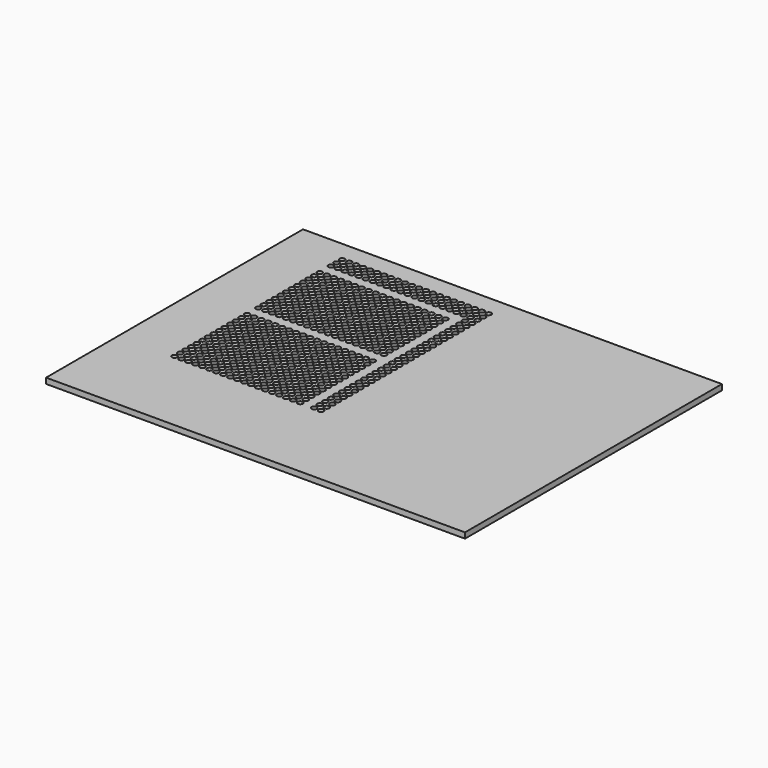
from build123d import *

# Parameters (mm, degrees)
F0_W     = 381
F0_H     = 292.1
F1_DEPTH = 5.08
F2_R     = 2.3876
F3_DEPTH = 3.81
F4_R     = 0.254
F5_DEPTH = 1.271


with BuildPart() as f1:
    # F0 (on Top) → F1 (new body)
    with BuildSketch(Plane.XY):
        with Locations((41.971452, 42.854718)):
            Rectangle(F0_W, F0_H)
    extrude(amount=F1_DEPTH)

    # F2 (on face) → F3 (cut)
    with BuildSketch(Plane.XY.offset(5.08)):
        with Locations((-97.728548, -20.645282)):
            Circle(F2_R)
        with Locations((-97.728548, -14.295282)):
            Circle(F2_R)
        with Locations((-97.728548, -7.945282)):
            Circle(F2_R)
        with Locations((-97.728548, -1.595282)):
            Circle(F2_R)
        with Locations((-97.728548, 4.754718)):
            Circle(F2_R)
        with Locations((-97.728548, 11.104718)):
            Circle(F2_R)
        with Locations((-97.728548, 17.454718)):
            Circle(F2_R)
        with Locations((-97.728548, 23.804718)):
            Circle(F2_R)
        with Locations((-97.728548, 30.154718)):
            Circle(F2_R)
        with Locations((-97.728548, 36.504718)):
            Circle(F2_R)
        with Locations((-97.728548, 42.854718)):
            Circle(F2_R)
        with Locations((-97.728548, 49.204718)):
            Circle(F2_R)
        with Locations((-97.728548, 55.554718)):
            Circle(F2_R)
        with Locations((-97.728548, 61.904718)):
            Circle(F2_R)
        with Locations((-91.378548, -20.645282)):
            Circle(F2_R)
        with Locations((-91.378548, -14.295282)):
            Circle(F2_R)
        with Locations((-91.378548, -7.945282)):
            Circle(F2_R)
        with Locations((-91.378548, -1.595282)):
            Circle(F2_R)
        with Locations((-91.378548, 4.754718)):
            Circle(F2_R)
        with Locations((-91.378548, 11.104718)):
            Circle(F2_R)
        with Locations((-91.378548, 17.454718)):
            Circle(F2_R)
        with Locations((-91.378548, 23.804718)):
            Circle(F2_R)
        with Locations((-91.378548, 30.154718)):
            Circle(F2_R)
        with Locations((-91.378548, 36.504718)):
            Circle(F2_R)
        with Locations((-91.378548, 42.854718)):
            Circle(F2_R)
        with Locations((-91.378548, 49.204718)):
            Circle(F2_R)
        with Locations((-91.378548, 55.554718)):
            Circle(F2_R)
        with Locations((-91.378548, 61.904718)):
            Circle(F2_R)
        with Locations((-85.028548, -20.645282)):
            Circle(F2_R)
        with Locations((-85.028548, -14.295282)):
            Circle(F2_R)
        with Locations((-85.028548, -7.945282)):
            Circle(F2_R)
        with Locations((-85.028548, -1.595282)):
            Circle(F2_R)
        with Locations((-85.028548, 4.754718)):
            Circle(F2_R)
        with Locations((-85.028548, 11.104718)):
            Circle(F2_R)
        with Locations((-85.028548, 17.454718)):
            Circle(F2_R)
        with Locations((-85.028548, 23.804718)):
            Circle(F2_R)
        with Locations((-85.028548, 30.154718)):
            Circle(F2_R)
        with Locations((-85.028548, 36.504718)):
            Circle(F2_R)
        with Locations((-85.028548, 42.854718)):
            Circle(F2_R)
        with Locations((-85.028548, 49.204718)):
            Circle(F2_R)
        with Locations((-85.028548, 55.554718)):
            Circle(F2_R)
        with Locations((-85.028548, 61.904718)):
            Circle(F2_R)
        with Locations((-78.678548, -20.645282)):
            Circle(F2_R)
        with Locations((-78.678548, -14.295282)):
            Circle(F2_R)
        with Locations((-78.678548, -7.945282)):
            Circle(F2_R)
        with Locations((-78.678548, -1.595282)):
            Circle(F2_R)
        with Locations((-78.678548, 4.754718)):
            Circle(F2_R)
        with Locations((-78.678548, 11.104718)):
            Circle(F2_R)
        with Locations((-78.678548, 17.454718)):
            Circle(F2_R)
        with Locations((-78.678548, 23.804718)):
            Circle(F2_R)
        with Locations((-78.678548, 30.154718)):
            Circle(F2_R)
        with Locations((-78.678548, 36.504718)):
            Circle(F2_R)
        with Locations((-78.678548, 42.854718)):
            Circle(F2_R)
        with Locations((-78.678548, 49.204718)):
            Circle(F2_R)
        with Locations((-78.678548, 55.554718)):
            Circle(F2_R)
        with Locations((-78.678548, 61.904718)):
            Circle(F2_R)
        with Locations((-72.328548, -20.645282)):
            Circle(F2_R)
        with Locations((-72.328548, -14.295282)):
            Circle(F2_R)
        with Locations((-72.328548, -7.945282)):
            Circle(F2_R)
        with Locations((-72.328548, -1.595282)):
            Circle(F2_R)
        with Locations((-72.328548, 4.754718)):
            Circle(F2_R)
        with Locations((-72.328548, 11.104718)):
            Circle(F2_R)
        with Locations((-72.328548, 17.454718)):
            Circle(F2_R)
        with Locations((-72.328548, 23.804718)):
            Circle(F2_R)
        with Locations((-72.328548, 30.154718)):
            Circle(F2_R)
        with Locations((-72.328548, 36.504718)):
            Circle(F2_R)
        with Locations((-72.328548, 42.854718)):
            Circle(F2_R)
        with Locations((-72.328548, 49.204718)):
            Circle(F2_R)
        with Locations((-72.328548, 55.554718)):
            Circle(F2_R)
        with Locations((-72.328548, 61.904718)):
            Circle(F2_R)
        with Locations((-65.978548, -20.645282)):
            Circle(F2_R)
        with Locations((-65.978548, -14.295282)):
            Circle(F2_R)
        with Locations((-65.978548, -7.945282)):
            Circle(F2_R)
        with Locations((-65.978548, -1.595282)):
            Circle(F2_R)
        with Locations((-65.978548, 4.754718)):
            Circle(F2_R)
        with Locations((-65.978548, 11.104718)):
            Circle(F2_R)
        with Locations((-65.978548, 17.454718)):
            Circle(F2_R)
        with Locations((-65.978548, 23.804718)):
            Circle(F2_R)
        with Locations((-65.978548, 30.154718)):
            Circle(F2_R)
        with Locations((-65.978548, 36.504718)):
            Circle(F2_R)
        with Locations((-65.978548, 42.854718)):
            Circle(F2_R)
        with Locations((-65.978548, 49.204718)):
            Circle(F2_R)
        with Locations((-65.978548, 55.554718)):
            Circle(F2_R)
        with Locations((-65.978548, 61.904718)):
            Circle(F2_R)
        with Locations((-59.628548, -20.645282)):
            Circle(F2_R)
        with Locations((-59.628548, -14.295282)):
            Circle(F2_R)
        with Locations((-59.628548, -7.945282)):
            Circle(F2_R)
        with Locations((-59.628548, -1.595282)):
            Circle(F2_R)
        with Locations((-59.628548, 4.754718)):
            Circle(F2_R)
        with Locations((-59.628548, 11.104718)):
            Circle(F2_R)
        with Locations((-59.628548, 17.454718)):
            Circle(F2_R)
        with Locations((-59.628548, 23.804718)):
            Circle(F2_R)
        with Locations((-59.628548, 30.154718)):
            Circle(F2_R)
        with Locations((-59.628548, 36.504718)):
            Circle(F2_R)
        with Locations((-59.628548, 42.854718)):
            Circle(F2_R)
        with Locations((-59.628548, 49.204718)):
            Circle(F2_R)
        with Locations((-59.628548, 55.554718)):
            Circle(F2_R)
        with Locations((-59.628548, 61.904718)):
            Circle(F2_R)
        with Locations((-53.278548, -20.645282)):
            Circle(F2_R)
        with Locations((-53.278548, -14.295282)):
            Circle(F2_R)
        with Locations((-53.278548, -7.945282)):
            Circle(F2_R)
        with Locations((-53.278548, -1.595282)):
            Circle(F2_R)
        with Locations((-53.278548, 4.754718)):
            Circle(F2_R)
        with Locations((-53.278548, 11.104718)):
            Circle(F2_R)
        with Locations((-53.278548, 17.454718)):
            Circle(F2_R)
        with Locations((-53.278548, 23.804718)):
            Circle(F2_R)
        with Locations((-53.278548, 30.154718)):
            Circle(F2_R)
        with Locations((-53.278548, 36.504718)):
            Circle(F2_R)
        with Locations((-53.278548, 42.854718)):
            Circle(F2_R)
        with Locations((-53.278548, 49.204718)):
            Circle(F2_R)
        with Locations((-53.278548, 55.554718)):
            Circle(F2_R)
        with Locations((-53.278548, 61.904718)):
            Circle(F2_R)
        with Locations((-46.928548, -20.645282)):
            Circle(F2_R)
        with Locations((-46.928548, -14.295282)):
            Circle(F2_R)
        with Locations((-46.928548, -7.945282)):
            Circle(F2_R)
        with Locations((-46.928548, -1.595282)):
            Circle(F2_R)
        with Locations((-46.928548, 4.754718)):
            Circle(F2_R)
        with Locations((-46.928548, 11.104718)):
            Circle(F2_R)
        with Locations((-46.928548, 17.454718)):
            Circle(F2_R)
        with Locations((-46.928548, 23.804718)):
            Circle(F2_R)
        with Locations((-46.928548, 30.154718)):
            Circle(F2_R)
        with Locations((-46.928548, 36.504718)):
            Circle(F2_R)
        with Locations((-46.928548, 42.854718)):
            Circle(F2_R)
        with Locations((-46.928548, 49.204718)):
            Circle(F2_R)
        with Locations((-46.928548, 55.554718)):
            Circle(F2_R)
        with Locations((-46.928548, 61.904718)):
            Circle(F2_R)
        with Locations((-40.578548, -20.645282)):
            Circle(F2_R)
        with Locations((-40.578548, -14.295282)):
            Circle(F2_R)
        with Locations((-40.578548, -7.945282)):
            Circle(F2_R)
        with Locations((-40.578548, -1.595282)):
            Circle(F2_R)
        with Locations((-40.578548, 4.754718)):
            Circle(F2_R)
        with Locations((-40.578548, 11.104718)):
            Circle(F2_R)
        with Locations((-40.578548, 17.454718)):
            Circle(F2_R)
        with Locations((-40.578548, 23.804718)):
            Circle(F2_R)
        with Locations((-40.578548, 30.154718)):
            Circle(F2_R)
        with Locations((-40.578548, 36.504718)):
            Circle(F2_R)
        with Locations((-40.578548, 42.854718)):
            Circle(F2_R)
        with Locations((-40.578548, 49.204718)):
            Circle(F2_R)
        with Locations((-40.578548, 55.554718)):
            Circle(F2_R)
        with Locations((-40.578548, 61.904718)):
            Circle(F2_R)
        with Locations((-34.228548, -20.645282)):
            Circle(F2_R)
        with Locations((-34.228548, -14.295282)):
            Circle(F2_R)
        with Locations((-34.228548, -7.945282)):
            Circle(F2_R)
        with Locations((-34.228548, -1.595282)):
            Circle(F2_R)
        with Locations((-34.228548, 4.754718)):
            Circle(F2_R)
        with Locations((-34.228548, 11.104718)):
            Circle(F2_R)
        with Locations((-34.228548, 17.454718)):
            Circle(F2_R)
        with Locations((-34.228548, 23.804718)):
            Circle(F2_R)
        with Locations((-34.228548, 30.154718)):
            Circle(F2_R)
        with Locations((-34.228548, 36.504718)):
            Circle(F2_R)
        with Locations((-34.228548, 42.854718)):
            Circle(F2_R)
        with Locations((-34.228548, 49.204718)):
            Circle(F2_R)
        with Locations((-34.228548, 55.554718)):
            Circle(F2_R)
        with Locations((-34.228548, 61.904718)):
            Circle(F2_R)
        with Locations((-27.878548, -20.645282)):
            Circle(F2_R)
        with Locations((-27.878548, -14.295282)):
            Circle(F2_R)
        with Locations((-27.878548, -7.945282)):
            Circle(F2_R)
        with Locations((-27.878548, -1.595282)):
            Circle(F2_R)
        with Locations((-27.878548, 4.754718)):
            Circle(F2_R)
        with Locations((-27.878548, 11.104718)):
            Circle(F2_R)
        with Locations((-27.878548, 17.454718)):
            Circle(F2_R)
        with Locations((-27.878548, 23.804718)):
            Circle(F2_R)
        with Locations((-27.878548, 30.154718)):
            Circle(F2_R)
        with Locations((-27.878548, 36.504718)):
            Circle(F2_R)
        with Locations((-27.878548, 42.854718)):
            Circle(F2_R)
        with Locations((-27.878548, 49.204718)):
            Circle(F2_R)
        with Locations((-27.878548, 55.554718)):
            Circle(F2_R)
        with Locations((-27.878548, 61.904718)):
            Circle(F2_R)
        with Locations((-21.528548, -20.645282)):
            Circle(F2_R)
        with Locations((-21.528548, -14.295282)):
            Circle(F2_R)
        with Locations((-21.528548, -7.945282)):
            Circle(F2_R)
        with Locations((-21.528548, -1.595282)):
            Circle(F2_R)
        with Locations((-21.528548, 4.754718)):
            Circle(F2_R)
        with Locations((-21.528548, 11.104718)):
            Circle(F2_R)
        with Locations((-21.528548, 17.454718)):
            Circle(F2_R)
        with Locations((-21.528548, 23.804718)):
            Circle(F2_R)
        with Locations((-21.528548, 30.154718)):
            Circle(F2_R)
        with Locations((-21.528548, 36.504718)):
            Circle(F2_R)
        with Locations((-21.528548, 42.854718)):
            Circle(F2_R)
        with Locations((-21.528548, 49.204718)):
            Circle(F2_R)
        with Locations((-21.528548, 55.554718)):
            Circle(F2_R)
        with Locations((-21.528548, 61.904718)):
            Circle(F2_R)
        with Locations((-15.178548, -20.645282)):
            Circle(F2_R)
        with Locations((-15.178548, -14.295282)):
            Circle(F2_R)
        with Locations((-15.178548, -7.945282)):
            Circle(F2_R)
        with Locations((-15.178548, -1.595282)):
            Circle(F2_R)
        with Locations((-15.178548, 4.754718)):
            Circle(F2_R)
        with Locations((-15.178548, 11.104718)):
            Circle(F2_R)
        with Locations((-15.178548, 17.454718)):
            Circle(F2_R)
        with Locations((-15.178548, 23.804718)):
            Circle(F2_R)
        with Locations((-15.178548, 30.154718)):
            Circle(F2_R)
        with Locations((-15.178548, 36.504718)):
            Circle(F2_R)
        with Locations((-15.178548, 42.854718)):
            Circle(F2_R)
        with Locations((-15.178548, 49.204718)):
            Circle(F2_R)
        with Locations((-15.178548, 55.554718)):
            Circle(F2_R)
        with Locations((-15.178548, 61.904718)):
            Circle(F2_R)
        with Locations((-8.828548, -20.645282)):
            Circle(F2_R)
        with Locations((-8.828548, -14.295282)):
            Circle(F2_R)
        with Locations((-8.828548, -7.945282)):
            Circle(F2_R)
        with Locations((-8.828548, -1.595282)):
            Circle(F2_R)
        with Locations((-8.828548, 4.754718)):
            Circle(F2_R)
        with Locations((-8.828548, 11.104718)):
            Circle(F2_R)
        with Locations((-8.828548, 17.454718)):
            Circle(F2_R)
        with Locations((-8.828548, 23.804718)):
            Circle(F2_R)
        with Locations((-8.828548, 30.154718)):
            Circle(F2_R)
        with Locations((-8.828548, 36.504718)):
            Circle(F2_R)
        with Locations((-8.828548, 42.854718)):
            Circle(F2_R)
        with Locations((-8.828548, 49.204718)):
            Circle(F2_R)
        with Locations((-8.828548, 55.554718)):
            Circle(F2_R)
        with Locations((-8.828548, 61.904718)):
            Circle(F2_R)
        with Locations((-2.478548, -20.645282)):
            Circle(F2_R)
        with Locations((-2.478548, -14.295282)):
            Circle(F2_R)
        with Locations((-2.478548, -7.945282)):
            Circle(F2_R)
        with Locations((-2.478548, -1.595282)):
            Circle(F2_R)
        with Locations((-2.478548, 4.754718)):
            Circle(F2_R)
        with Locations((-2.478548, 11.104718)):
            Circle(F2_R)
        with Locations((-2.478548, 17.454718)):
            Circle(F2_R)
        with Locations((-2.478548, 23.804718)):
            Circle(F2_R)
        with Locations((-2.478548, 30.154718)):
            Circle(F2_R)
        with Locations((-2.478548, 36.504718)):
            Circle(F2_R)
        with Locations((-2.478548, 42.854718)):
            Circle(F2_R)
        with Locations((-2.478548, 49.204718)):
            Circle(F2_R)
        with Locations((-2.478548, 55.554718)):
            Circle(F2_R)
        with Locations((-2.478548, 61.904718)):
            Circle(F2_R)
        with Locations((3.871452, -20.645282)):
            Circle(F2_R)
        with Locations((3.871452, -14.295282)):
            Circle(F2_R)
        with Locations((3.871452, -7.945282)):
            Circle(F2_R)
        with Locations((3.871452, -1.595282)):
            Circle(F2_R)
        with Locations((3.871452, 4.754718)):
            Circle(F2_R)
        with Locations((3.871452, 11.104718)):
            Circle(F2_R)
        with Locations((3.871452, 17.454718)):
            Circle(F2_R)
        with Locations((3.871452, 23.804718)):
            Circle(F2_R)
        with Locations((3.871452, 30.154718)):
            Circle(F2_R)
        with Locations((3.871452, 36.504718)):
            Circle(F2_R)
        with Locations((3.871452, 42.854718)):
            Circle(F2_R)
        with Locations((3.871452, 49.204718)):
            Circle(F2_R)
        with Locations((3.871452, 55.554718)):
            Circle(F2_R)
        with Locations((3.871452, 61.904718)):
            Circle(F2_R)
        with Locations((10.221452, -20.645282)):
            Circle(F2_R)
        with Locations((10.221452, -14.295282)):
            Circle(F2_R)
        with Locations((10.221452, -7.945282)):
            Circle(F2_R)
        with Locations((10.221452, -1.595282)):
            Circle(F2_R)
        with Locations((10.221452, 4.754718)):
            Circle(F2_R)
        with Locations((10.221452, 11.104718)):
            Circle(F2_R)
        with Locations((10.221452, 17.454718)):
            Circle(F2_R)
        with Locations((10.221452, 23.804718)):
            Circle(F2_R)
        with Locations((10.221452, 30.154718)):
            Circle(F2_R)
        with Locations((10.221452, 36.504718)):
            Circle(F2_R)
        with Locations((10.221452, 42.854718)):
            Circle(F2_R)
        with Locations((10.221452, 49.204718)):
            Circle(F2_R)
        with Locations((10.221452, 55.554718)):
            Circle(F2_R)
        with Locations((10.221452, 61.904718)):
            Circle(F2_R)
        with Locations((16.571452, -20.645282)):
            Circle(F2_R)
        with Locations((16.571452, -14.295282)):
            Circle(F2_R)
        with Locations((16.571452, -7.945282)):
            Circle(F2_R)
        with Locations((16.571452, -1.595282)):
            Circle(F2_R)
        with Locations((16.571452, 4.754718)):
            Circle(F2_R)
        with Locations((16.571452, 11.104718)):
            Circle(F2_R)
        with Locations((16.571452, 17.454718)):
            Circle(F2_R)
        with Locations((16.571452, 23.804718)):
            Circle(F2_R)
        with Locations((16.571452, 30.154718)):
            Circle(F2_R)
        with Locations((16.571452, 36.504718)):
            Circle(F2_R)
        with Locations((16.571452, 42.854718)):
            Circle(F2_R)
        with Locations((16.571452, 49.204718)):
            Circle(F2_R)
        with Locations((16.571452, 55.554718)):
            Circle(F2_R)
        with Locations((16.571452, 61.904718)):
            Circle(F2_R)
        with Locations((-97.728548, 74.604718)):
            Circle(F2_R)
        with Locations((-97.728548, 80.954718)):
            Circle(F2_R)
        with Locations((-97.728548, 87.304718)):
            Circle(F2_R)
        with Locations((-97.728548, 93.654718)):
            Circle(F2_R)
        with Locations((-97.728548, 100.004718)):
            Circle(F2_R)
        with Locations((-97.728548, 106.354718)):
            Circle(F2_R)
        with Locations((-97.728548, 112.704718)):
            Circle(F2_R)
        with Locations((-97.728548, 119.054718)):
            Circle(F2_R)
        with Locations((-97.728548, 125.404718)):
            Circle(F2_R)
        with Locations((-97.728548, 131.754718)):
            Circle(F2_R)
        with Locations((-97.728548, 138.104718)):
            Circle(F2_R)
        with Locations((-97.728548, 144.454718)):
            Circle(F2_R)
        with Locations((-91.378548, 74.604718)):
            Circle(F2_R)
        with Locations((-91.378548, 80.954718)):
            Circle(F2_R)
        with Locations((-91.378548, 87.304718)):
            Circle(F2_R)
        with Locations((-91.378548, 93.654718)):
            Circle(F2_R)
        with Locations((-91.378548, 100.004718)):
            Circle(F2_R)
        with Locations((-91.378548, 106.354718)):
            Circle(F2_R)
        with Locations((-91.378548, 112.704718)):
            Circle(F2_R)
        with Locations((-91.378548, 119.054718)):
            Circle(F2_R)
        with Locations((-91.378548, 125.404718)):
            Circle(F2_R)
        with Locations((-91.378548, 131.754718)):
            Circle(F2_R)
        with Locations((-91.378548, 138.104718)):
            Circle(F2_R)
        with Locations((-91.378548, 144.454718)):
            Circle(F2_R)
        with Locations((-85.028548, 74.604718)):
            Circle(F2_R)
        with Locations((-85.028548, 80.954718)):
            Circle(F2_R)
        with Locations((-85.028548, 87.304718)):
            Circle(F2_R)
        with Locations((-85.028548, 93.654718)):
            Circle(F2_R)
        with Locations((-85.028548, 100.004718)):
            Circle(F2_R)
        with Locations((-85.028548, 106.354718)):
            Circle(F2_R)
        with Locations((-85.028548, 112.704718)):
            Circle(F2_R)
        with Locations((-85.028548, 119.054718)):
            Circle(F2_R)
        with Locations((-85.028548, 125.404718)):
            Circle(F2_R)
        with Locations((-85.028548, 131.754718)):
            Circle(F2_R)
        with Locations((-85.028548, 138.104718)):
            Circle(F2_R)
        with Locations((-85.028548, 144.454718)):
            Circle(F2_R)
        with Locations((-78.678548, 74.604718)):
            Circle(F2_R)
        with Locations((-78.678548, 80.954718)):
            Circle(F2_R)
        with Locations((-78.678548, 87.304718)):
            Circle(F2_R)
        with Locations((-78.678548, 93.654718)):
            Circle(F2_R)
        with Locations((-78.678548, 100.004718)):
            Circle(F2_R)
        with Locations((-78.678548, 106.354718)):
            Circle(F2_R)
        with Locations((-78.678548, 112.704718)):
            Circle(F2_R)
        with Locations((-78.678548, 119.054718)):
            Circle(F2_R)
        with Locations((-78.678548, 125.404718)):
            Circle(F2_R)
        with Locations((-78.678548, 131.754718)):
            Circle(F2_R)
        with Locations((-78.678548, 138.104718)):
            Circle(F2_R)
        with Locations((-78.678548, 144.454718)):
            Circle(F2_R)
        with Locations((-72.328548, 74.604718)):
            Circle(F2_R)
        with Locations((-72.328548, 80.954718)):
            Circle(F2_R)
        with Locations((-72.328548, 87.304718)):
            Circle(F2_R)
        with Locations((-72.328548, 93.654718)):
            Circle(F2_R)
        with Locations((-72.328548, 100.004718)):
            Circle(F2_R)
        with Locations((-72.328548, 106.354718)):
            Circle(F2_R)
        with Locations((-72.328548, 112.704718)):
            Circle(F2_R)
        with Locations((-72.328548, 119.054718)):
            Circle(F2_R)
        with Locations((-72.328548, 125.404718)):
            Circle(F2_R)
        with Locations((-72.328548, 131.754718)):
            Circle(F2_R)
        with Locations((-72.328548, 138.104718)):
            Circle(F2_R)
        with Locations((-72.328548, 144.454718)):
            Circle(F2_R)
        with Locations((-65.978548, 74.604718)):
            Circle(F2_R)
        with Locations((-65.978548, 80.954718)):
            Circle(F2_R)
        with Locations((-65.978548, 87.304718)):
            Circle(F2_R)
        with Locations((-65.978548, 93.654718)):
            Circle(F2_R)
        with Locations((-65.978548, 100.004718)):
            Circle(F2_R)
        with Locations((-65.978548, 106.354718)):
            Circle(F2_R)
        with Locations((-65.978548, 112.704718)):
            Circle(F2_R)
        with Locations((-65.978548, 119.054718)):
            Circle(F2_R)
        with Locations((-65.978548, 125.404718)):
            Circle(F2_R)
        with Locations((-65.978548, 131.754718)):
            Circle(F2_R)
        with Locations((-65.978548, 138.104718)):
            Circle(F2_R)
        with Locations((-65.978548, 144.454718)):
            Circle(F2_R)
        with Locations((-59.628548, 74.604718)):
            Circle(F2_R)
        with Locations((-59.628548, 80.954718)):
            Circle(F2_R)
        with Locations((-59.628548, 87.304718)):
            Circle(F2_R)
        with Locations((-59.628548, 93.654718)):
            Circle(F2_R)
        with Locations((-59.628548, 100.004718)):
            Circle(F2_R)
        with Locations((-59.628548, 106.354718)):
            Circle(F2_R)
        with Locations((-59.628548, 112.704718)):
            Circle(F2_R)
        with Locations((-59.628548, 119.054718)):
            Circle(F2_R)
        with Locations((-59.628548, 125.404718)):
            Circle(F2_R)
        with Locations((-59.628548, 131.754718)):
            Circle(F2_R)
        with Locations((-59.628548, 138.104718)):
            Circle(F2_R)
        with Locations((-59.628548, 144.454718)):
            Circle(F2_R)
        with Locations((-53.278548, 74.604718)):
            Circle(F2_R)
        with Locations((-53.278548, 80.954718)):
            Circle(F2_R)
        with Locations((-53.278548, 87.304718)):
            Circle(F2_R)
        with Locations((-53.278548, 93.654718)):
            Circle(F2_R)
        with Locations((-53.278548, 100.004718)):
            Circle(F2_R)
        with Locations((-53.278548, 106.354718)):
            Circle(F2_R)
        with Locations((-53.278548, 112.704718)):
            Circle(F2_R)
        with Locations((-53.278548, 119.054718)):
            Circle(F2_R)
        with Locations((-53.278548, 125.404718)):
            Circle(F2_R)
        with Locations((-53.278548, 131.754718)):
            Circle(F2_R)
        with Locations((-53.278548, 138.104718)):
            Circle(F2_R)
        with Locations((-53.278548, 144.454718)):
            Circle(F2_R)
        with Locations((-46.928548, 74.604718)):
            Circle(F2_R)
        with Locations((-46.928548, 80.954718)):
            Circle(F2_R)
        with Locations((-46.928548, 87.304718)):
            Circle(F2_R)
        with Locations((-46.928548, 93.654718)):
            Circle(F2_R)
        with Locations((-46.928548, 100.004718)):
            Circle(F2_R)
        with Locations((-46.928548, 106.354718)):
            Circle(F2_R)
        with Locations((-46.928548, 112.704718)):
            Circle(F2_R)
        with Locations((-46.928548, 119.054718)):
            Circle(F2_R)
        with Locations((-46.928548, 125.404718)):
            Circle(F2_R)
        with Locations((-46.928548, 131.754718)):
            Circle(F2_R)
        with Locations((-46.928548, 138.104718)):
            Circle(F2_R)
        with Locations((-46.928548, 144.454718)):
            Circle(F2_R)
        with Locations((-40.578548, 74.604718)):
            Circle(F2_R)
        with Locations((-40.578548, 80.954718)):
            Circle(F2_R)
        with Locations((-40.578548, 87.304718)):
            Circle(F2_R)
        with Locations((-40.578548, 93.654718)):
            Circle(F2_R)
        with Locations((-40.578548, 100.004718)):
            Circle(F2_R)
        with Locations((-40.578548, 106.354718)):
            Circle(F2_R)
        with Locations((-40.578548, 112.704718)):
            Circle(F2_R)
        with Locations((-40.578548, 119.054718)):
            Circle(F2_R)
        with Locations((-40.578548, 125.404718)):
            Circle(F2_R)
        with Locations((-40.578548, 131.754718)):
            Circle(F2_R)
        with Locations((-40.578548, 138.104718)):
            Circle(F2_R)
        with Locations((-40.578548, 144.454718)):
            Circle(F2_R)
        with Locations((-34.228548, 74.604718)):
            Circle(F2_R)
        with Locations((-34.228548, 80.954718)):
            Circle(F2_R)
        with Locations((-34.228548, 87.304718)):
            Circle(F2_R)
        with Locations((-34.228548, 93.654718)):
            Circle(F2_R)
        with Locations((-34.228548, 100.004718)):
            Circle(F2_R)
        with Locations((-34.228548, 106.354718)):
            Circle(F2_R)
        with Locations((-34.228548, 112.704718)):
            Circle(F2_R)
        with Locations((-34.228548, 119.054718)):
            Circle(F2_R)
        with Locations((-34.228548, 125.404718)):
            Circle(F2_R)
        with Locations((-34.228548, 131.754718)):
            Circle(F2_R)
        with Locations((-34.228548, 138.104718)):
            Circle(F2_R)
        with Locations((-34.228548, 144.454718)):
            Circle(F2_R)
        with Locations((-27.878548, 74.604718)):
            Circle(F2_R)
        with Locations((-27.878548, 80.954718)):
            Circle(F2_R)
        with Locations((-27.878548, 87.304718)):
            Circle(F2_R)
        with Locations((-27.878548, 93.654718)):
            Circle(F2_R)
        with Locations((-27.878548, 100.004718)):
            Circle(F2_R)
        with Locations((-27.878548, 106.354718)):
            Circle(F2_R)
        with Locations((-27.878548, 112.704718)):
            Circle(F2_R)
        with Locations((-27.878548, 119.054718)):
            Circle(F2_R)
        with Locations((-27.878548, 125.404718)):
            Circle(F2_R)
        with Locations((-27.878548, 131.754718)):
            Circle(F2_R)
        with Locations((-27.878548, 138.104718)):
            Circle(F2_R)
        with Locations((-27.878548, 144.454718)):
            Circle(F2_R)
        with Locations((-21.528548, 74.604718)):
            Circle(F2_R)
        with Locations((-21.528548, 80.954718)):
            Circle(F2_R)
        with Locations((-21.528548, 87.304718)):
            Circle(F2_R)
        with Locations((-21.528548, 93.654718)):
            Circle(F2_R)
        with Locations((-21.528548, 100.004718)):
            Circle(F2_R)
        with Locations((-21.528548, 106.354718)):
            Circle(F2_R)
        with Locations((-21.528548, 112.704718)):
            Circle(F2_R)
        with Locations((-21.528548, 119.054718)):
            Circle(F2_R)
        with Locations((-21.528548, 125.404718)):
            Circle(F2_R)
        with Locations((-21.528548, 131.754718)):
            Circle(F2_R)
        with Locations((-21.528548, 138.104718)):
            Circle(F2_R)
        with Locations((-21.528548, 144.454718)):
            Circle(F2_R)
        with Locations((-15.178548, 74.604718)):
            Circle(F2_R)
        with Locations((-15.178548, 80.954718)):
            Circle(F2_R)
        with Locations((-15.178548, 87.304718)):
            Circle(F2_R)
        with Locations((-15.178548, 93.654718)):
            Circle(F2_R)
        with Locations((-15.178548, 100.004718)):
            Circle(F2_R)
        with Locations((-15.178548, 106.354718)):
            Circle(F2_R)
        with Locations((-15.178548, 112.704718)):
            Circle(F2_R)
        with Locations((-15.178548, 119.054718)):
            Circle(F2_R)
        with Locations((-15.178548, 125.404718)):
            Circle(F2_R)
        with Locations((-15.178548, 131.754718)):
            Circle(F2_R)
        with Locations((-15.178548, 138.104718)):
            Circle(F2_R)
        with Locations((-15.178548, 144.454718)):
            Circle(F2_R)
        with Locations((-8.828548, 74.604718)):
            Circle(F2_R)
        with Locations((-8.828548, 80.954718)):
            Circle(F2_R)
        with Locations((-8.828548, 87.304718)):
            Circle(F2_R)
        with Locations((-8.828548, 93.654718)):
            Circle(F2_R)
        with Locations((-8.828548, 100.004718)):
            Circle(F2_R)
        with Locations((-8.828548, 106.354718)):
            Circle(F2_R)
        with Locations((-8.828548, 112.704718)):
            Circle(F2_R)
        with Locations((-8.828548, 119.054718)):
            Circle(F2_R)
        with Locations((-8.828548, 125.404718)):
            Circle(F2_R)
        with Locations((-8.828548, 131.754718)):
            Circle(F2_R)
        with Locations((-8.828548, 138.104718)):
            Circle(F2_R)
        with Locations((-8.828548, 144.454718)):
            Circle(F2_R)
        with Locations((-2.478548, 74.604718)):
            Circle(F2_R)
        with Locations((-2.478548, 80.954718)):
            Circle(F2_R)
        with Locations((-2.478548, 87.304718)):
            Circle(F2_R)
        with Locations((-2.478548, 93.654718)):
            Circle(F2_R)
        with Locations((-2.478548, 100.004718)):
            Circle(F2_R)
        with Locations((-2.478548, 106.354718)):
            Circle(F2_R)
        with Locations((-2.478548, 112.704718)):
            Circle(F2_R)
        with Locations((-2.478548, 119.054718)):
            Circle(F2_R)
        with Locations((-2.478548, 125.404718)):
            Circle(F2_R)
        with Locations((-2.478548, 131.754718)):
            Circle(F2_R)
        with Locations((-2.478548, 138.104718)):
            Circle(F2_R)
        with Locations((-2.478548, 144.454718)):
            Circle(F2_R)
        with Locations((3.871452, 74.604718)):
            Circle(F2_R)
        with Locations((3.871452, 80.954718)):
            Circle(F2_R)
        with Locations((3.871452, 87.304718)):
            Circle(F2_R)
        with Locations((3.871452, 93.654718)):
            Circle(F2_R)
        with Locations((3.871452, 100.004718)):
            Circle(F2_R)
        with Locations((3.871452, 106.354718)):
            Circle(F2_R)
        with Locations((3.871452, 112.704718)):
            Circle(F2_R)
        with Locations((3.871452, 119.054718)):
            Circle(F2_R)
        with Locations((3.871452, 125.404718)):
            Circle(F2_R)
        with Locations((3.871452, 131.754718)):
            Circle(F2_R)
        with Locations((3.871452, 138.104718)):
            Circle(F2_R)
        with Locations((3.871452, 144.454718)):
            Circle(F2_R)
        with Locations((10.221452, 74.604718)):
            Circle(F2_R)
        with Locations((10.221452, 80.954718)):
            Circle(F2_R)
        with Locations((10.221452, 87.304718)):
            Circle(F2_R)
        with Locations((10.221452, 93.654718)):
            Circle(F2_R)
        with Locations((10.221452, 100.004718)):
            Circle(F2_R)
        with Locations((10.221452, 106.354718)):
            Circle(F2_R)
        with Locations((10.221452, 112.704718)):
            Circle(F2_R)
        with Locations((10.221452, 119.054718)):
            Circle(F2_R)
        with Locations((10.221452, 125.404718)):
            Circle(F2_R)
        with Locations((10.221452, 131.754718)):
            Circle(F2_R)
        with Locations((10.221452, 138.104718)):
            Circle(F2_R)
        with Locations((10.221452, 144.454718)):
            Circle(F2_R)
        with Locations((16.571452, 74.604718)):
            Circle(F2_R)
        with Locations((16.571452, 80.954718)):
            Circle(F2_R)
        with Locations((16.571452, 87.304718)):
            Circle(F2_R)
        with Locations((16.571452, 93.654718)):
            Circle(F2_R)
        with Locations((16.571452, 100.004718)):
            Circle(F2_R)
        with Locations((16.571452, 106.354718)):
            Circle(F2_R)
        with Locations((16.571452, 112.704718)):
            Circle(F2_R)
        with Locations((16.571452, 119.054718)):
            Circle(F2_R)
        with Locations((16.571452, 125.404718)):
            Circle(F2_R)
        with Locations((16.571452, 131.754718)):
            Circle(F2_R)
        with Locations((16.571452, 138.104718)):
            Circle(F2_R)
        with Locations((16.571452, 144.454718)):
            Circle(F2_R)
        with Locations((-97.728548, 157.154718)):
            Circle(F2_R)
        with Locations((-97.728548, 163.504718)):
            Circle(F2_R)
        with Locations((-97.728548, 169.854718)):
            Circle(F2_R)
        with Locations((-91.378548, 157.154718)):
            Circle(F2_R)
        with Locations((-91.378548, 163.504718)):
            Circle(F2_R)
        with Locations((-91.378548, 169.854718)):
            Circle(F2_R)
        with Locations((-85.028548, 157.154718)):
            Circle(F2_R)
        with Locations((-85.028548, 163.504718)):
            Circle(F2_R)
        with Locations((-85.028548, 169.854718)):
            Circle(F2_R)
        with Locations((-78.678548, 157.154718)):
            Circle(F2_R)
        with Locations((-78.678548, 163.504718)):
            Circle(F2_R)
        with Locations((-78.678548, 169.854718)):
            Circle(F2_R)
        with Locations((-72.328548, 157.154718)):
            Circle(F2_R)
        with Locations((-72.328548, 163.504718)):
            Circle(F2_R)
        with Locations((-72.328548, 169.854718)):
            Circle(F2_R)
        with Locations((-65.978548, 157.154718)):
            Circle(F2_R)
        with Locations((-65.978548, 163.504718)):
            Circle(F2_R)
        with Locations((-65.978548, 169.854718)):
            Circle(F2_R)
        with Locations((-59.628548, 157.154718)):
            Circle(F2_R)
        with Locations((-59.628548, 163.504718)):
            Circle(F2_R)
        with Locations((-59.628548, 169.854718)):
            Circle(F2_R)
        with Locations((-53.278548, 157.154718)):
            Circle(F2_R)
        with Locations((-53.278548, 163.504718)):
            Circle(F2_R)
        with Locations((-53.278548, 169.854718)):
            Circle(F2_R)
        with Locations((-46.928548, 157.154718)):
            Circle(F2_R)
        with Locations((-46.928548, 163.504718)):
            Circle(F2_R)
        with Locations((-46.928548, 169.854718)):
            Circle(F2_R)
        with Locations((-40.578548, 157.154718)):
            Circle(F2_R)
        with Locations((-40.578548, 163.504718)):
            Circle(F2_R)
        with Locations((-40.578548, 169.854718)):
            Circle(F2_R)
        with Locations((-34.228548, 157.154718)):
            Circle(F2_R)
        with Locations((-34.228548, 163.504718)):
            Circle(F2_R)
        with Locations((-34.228548, 169.854718)):
            Circle(F2_R)
        with Locations((-27.878548, 157.154718)):
            Circle(F2_R)
        with Locations((-27.878548, 163.504718)):
            Circle(F2_R)
        with Locations((-27.878548, 169.854718)):
            Circle(F2_R)
        with Locations((-21.528548, 157.154718)):
            Circle(F2_R)
        with Locations((-21.528548, 163.504718)):
            Circle(F2_R)
        with Locations((-21.528548, 169.854718)):
            Circle(F2_R)
        with Locations((-15.178548, 157.154718)):
            Circle(F2_R)
        with Locations((-15.178548, 163.504718)):
            Circle(F2_R)
        with Locations((-15.178548, 169.854718)):
            Circle(F2_R)
        with Locations((-8.828548, 157.154718)):
            Circle(F2_R)
        with Locations((-8.828548, 163.504718)):
            Circle(F2_R)
        with Locations((-8.828548, 169.854718)):
            Circle(F2_R)
        with Locations((-2.478548, 157.154718)):
            Circle(F2_R)
        with Locations((-2.478548, 163.504718)):
            Circle(F2_R)
        with Locations((-2.478548, 169.854718)):
            Circle(F2_R)
        with Locations((3.871452, 157.154718)):
            Circle(F2_R)
        with Locations((3.871452, 163.504718)):
            Circle(F2_R)
        with Locations((3.871452, 169.854718)):
            Circle(F2_R)
        with Locations((10.221452, 157.154718)):
            Circle(F2_R)
        with Locations((10.221452, 163.504718)):
            Circle(F2_R)
        with Locations((10.221452, 169.854718)):
            Circle(F2_R)
        with Locations((16.571452, 157.154718)):
            Circle(F2_R)
        with Locations((16.571452, 163.504718)):
            Circle(F2_R)
        with Locations((16.571452, 169.854718)):
            Circle(F2_R)
        with Locations((22.921452, 157.154718)):
            Circle(F2_R)
        with Locations((22.921452, 163.504718)):
            Circle(F2_R)
        with Locations((22.921452, 169.854718)):
            Circle(F2_R)
        with Locations((29.271452, 157.154718)):
            Circle(F2_R)
        with Locations((29.271452, 163.504718)):
            Circle(F2_R)
        with Locations((29.271452, 169.854718)):
            Circle(F2_R)
        with Locations((35.621452, 157.154718)):
            Circle(F2_R)
        with Locations((35.621452, 163.504718)):
            Circle(F2_R)
        with Locations((35.621452, 169.854718)):
            Circle(F2_R)
        with Locations((29.271452, -20.645282)):
            Circle(F2_R)
        with Locations((29.271452, -14.295282)):
            Circle(F2_R)
        with Locations((29.271452, -7.945282)):
            Circle(F2_R)
        with Locations((29.271452, -1.595282)):
            Circle(F2_R)
        with Locations((29.271452, 4.754718)):
            Circle(F2_R)
        with Locations((29.271452, 11.104718)):
            Circle(F2_R)
        with Locations((29.271452, 17.454718)):
            Circle(F2_R)
        with Locations((29.271452, 23.804718)):
            Circle(F2_R)
        with Locations((29.271452, 30.154718)):
            Circle(F2_R)
        with Locations((29.271452, 36.504718)):
            Circle(F2_R)
        with Locations((29.271452, 42.854718)):
            Circle(F2_R)
        with Locations((29.271452, 49.204718)):
            Circle(F2_R)
        with Locations((29.271452, 55.554718)):
            Circle(F2_R)
        with Locations((29.271452, 61.904718)):
            Circle(F2_R)
        with Locations((29.271452, 68.254718)):
            Circle(F2_R)
        with Locations((29.271452, 74.604718)):
            Circle(F2_R)
        with Locations((29.271452, 80.954718)):
            Circle(F2_R)
        with Locations((29.271452, 87.304718)):
            Circle(F2_R)
        with Locations((29.271452, 93.654718)):
            Circle(F2_R)
        with Locations((29.271452, 100.004718)):
            Circle(F2_R)
        with Locations((29.271452, 106.354718)):
            Circle(F2_R)
        with Locations((29.271452, 112.704718)):
            Circle(F2_R)
        with Locations((29.271452, 119.054718)):
            Circle(F2_R)
        with Locations((29.271452, 125.404718)):
            Circle(F2_R)
        with Locations((29.271452, 131.754718)):
            Circle(F2_R)
        with Locations((29.271452, 138.104718)):
            Circle(F2_R)
        with Locations((29.271452, 144.454718)):
            Circle(F2_R)
        with Locations((29.271452, 150.804718)):
            Circle(F2_R)
        with Locations((35.621452, -20.645282)):
            Circle(F2_R)
        with Locations((35.621452, -14.295282)):
            Circle(F2_R)
        with Locations((35.621452, -7.945282)):
            Circle(F2_R)
        with Locations((35.621452, -1.595282)):
            Circle(F2_R)
        with Locations((35.621452, 4.754718)):
            Circle(F2_R)
        with Locations((35.621452, 11.104718)):
            Circle(F2_R)
        with Locations((35.621452, 17.454718)):
            Circle(F2_R)
        with Locations((35.621452, 23.804718)):
            Circle(F2_R)
        with Locations((35.621452, 30.154718)):
            Circle(F2_R)
        with Locations((35.621452, 36.504718)):
            Circle(F2_R)
        with Locations((35.621452, 42.854718)):
            Circle(F2_R)
        with Locations((35.621452, 49.204718)):
            Circle(F2_R)
        with Locations((35.621452, 55.554718)):
            Circle(F2_R)
        with Locations((35.621452, 61.904718)):
            Circle(F2_R)
        with Locations((35.621452, 68.254718)):
            Circle(F2_R)
        with Locations((35.621452, 74.604718)):
            Circle(F2_R)
        with Locations((35.621452, 80.954718)):
            Circle(F2_R)
        with Locations((35.621452, 87.304718)):
            Circle(F2_R)
        with Locations((35.621452, 93.654718)):
            Circle(F2_R)
        with Locations((35.621452, 100.004718)):
            Circle(F2_R)
        with Locations((35.621452, 106.354718)):
            Circle(F2_R)
        with Locations((35.621452, 112.704718)):
            Circle(F2_R)
        with Locations((35.621452, 119.054718)):
            Circle(F2_R)
        with Locations((35.621452, 125.404718)):
            Circle(F2_R)
        with Locations((35.621452, 131.754718)):
            Circle(F2_R)
        with Locations((35.621452, 138.104718)):
            Circle(F2_R)
        with Locations((35.621452, 144.454718)):
            Circle(F2_R)
        with Locations((35.621452, 150.804718)):
            Circle(F2_R)
    extrude(amount=-F3_DEPTH, mode=Mode.SUBTRACT)

    # F4 (on face) → F5 (cut, through all)
    with BuildSketch(Plane.XY.offset(1.27)):
        with Locations((-97.728548, -20.645282)):
            Circle(F4_R)
        with Locations((-97.728548, -14.295282)):
            Circle(F4_R)
        with Locations((-97.728548, -7.945282)):
            Circle(F4_R)
        with Locations((-97.728548, -1.595282)):
            Circle(F4_R)
        with Locations((-97.728548, 4.754718)):
            Circle(F4_R)
        with Locations((-97.728548, 11.104718)):
            Circle(F4_R)
        with Locations((-97.728548, 17.454718)):
            Circle(F4_R)
        with Locations((-97.728548, 23.804718)):
            Circle(F4_R)
        with Locations((-97.728548, 30.154718)):
            Circle(F4_R)
        with Locations((-97.728548, 36.504718)):
            Circle(F4_R)
        with Locations((-97.728548, 42.854718)):
            Circle(F4_R)
        with Locations((-97.728548, 49.204718)):
            Circle(F4_R)
        with Locations((-97.728548, 55.554718)):
            Circle(F4_R)
        with Locations((-97.728548, 61.904718)):
            Circle(F4_R)
        with Locations((-91.378548, -20.645282)):
            Circle(F4_R)
        with Locations((-91.378548, -14.295282)):
            Circle(F4_R)
        with Locations((-91.378548, -7.945282)):
            Circle(F4_R)
        with Locations((-91.378548, -1.595282)):
            Circle(F4_R)
        with Locations((-91.378548, 4.754718)):
            Circle(F4_R)
        with Locations((-91.378548, 11.104718)):
            Circle(F4_R)
        with Locations((-91.378548, 17.454718)):
            Circle(F4_R)
        with Locations((-91.378548, 23.804718)):
            Circle(F4_R)
        with Locations((-91.378548, 30.154718)):
            Circle(F4_R)
        with Locations((-91.378548, 36.504718)):
            Circle(F4_R)
        with Locations((-91.378548, 42.854718)):
            Circle(F4_R)
        with Locations((-91.378548, 49.204718)):
            Circle(F4_R)
        with Locations((-91.378548, 55.554718)):
            Circle(F4_R)
        with Locations((-91.378548, 61.904718)):
            Circle(F4_R)
        with Locations((-85.028548, -20.645282)):
            Circle(F4_R)
        with Locations((-85.028548, -14.295282)):
            Circle(F4_R)
        with Locations((-85.028548, -7.945282)):
            Circle(F4_R)
        with Locations((-85.028548, -1.595282)):
            Circle(F4_R)
        with Locations((-85.028548, 4.754718)):
            Circle(F4_R)
        with Locations((-85.028548, 11.104718)):
            Circle(F4_R)
        with Locations((-85.028548, 17.454718)):
            Circle(F4_R)
        with Locations((-85.028548, 23.804718)):
            Circle(F4_R)
        with Locations((-85.028548, 30.154718)):
            Circle(F4_R)
        with Locations((-85.028548, 36.504718)):
            Circle(F4_R)
        with Locations((-85.028548, 42.854718)):
            Circle(F4_R)
        with Locations((-85.028548, 49.204718)):
            Circle(F4_R)
        with Locations((-85.028548, 55.554718)):
            Circle(F4_R)
        with Locations((-85.028548, 61.904718)):
            Circle(F4_R)
        with Locations((-78.678548, -20.645282)):
            Circle(F4_R)
        with Locations((-78.678548, -14.295282)):
            Circle(F4_R)
        with Locations((-78.678548, -7.945282)):
            Circle(F4_R)
        with Locations((-78.678548, -1.595282)):
            Circle(F4_R)
        with Locations((-78.678548, 4.754718)):
            Circle(F4_R)
        with Locations((-78.678548, 11.104718)):
            Circle(F4_R)
        with Locations((-78.678548, 17.454718)):
            Circle(F4_R)
        with Locations((-78.678548, 23.804718)):
            Circle(F4_R)
        with Locations((-78.678548, 30.154718)):
            Circle(F4_R)
        with Locations((-78.678548, 36.504718)):
            Circle(F4_R)
        with Locations((-78.678548, 42.854718)):
            Circle(F4_R)
        with Locations((-78.678548, 49.204718)):
            Circle(F4_R)
        with Locations((-78.678548, 55.554718)):
            Circle(F4_R)
        with Locations((-78.678548, 61.904718)):
            Circle(F4_R)
        with Locations((-72.328548, -20.645282)):
            Circle(F4_R)
        with Locations((-72.328548, -14.295282)):
            Circle(F4_R)
        with Locations((-72.328548, -7.945282)):
            Circle(F4_R)
        with Locations((-72.328548, -1.595282)):
            Circle(F4_R)
        with Locations((-72.328548, 4.754718)):
            Circle(F4_R)
        with Locations((-72.328548, 11.104718)):
            Circle(F4_R)
        with Locations((-72.328548, 17.454718)):
            Circle(F4_R)
        with Locations((-72.328548, 23.804718)):
            Circle(F4_R)
        with Locations((-72.328548, 30.154718)):
            Circle(F4_R)
        with Locations((-72.328548, 36.504718)):
            Circle(F4_R)
        with Locations((-72.328548, 42.854718)):
            Circle(F4_R)
        with Locations((-72.328548, 49.204718)):
            Circle(F4_R)
        with Locations((-72.328548, 55.554718)):
            Circle(F4_R)
        with Locations((-72.328548, 61.904718)):
            Circle(F4_R)
        with Locations((-65.978548, -20.645282)):
            Circle(F4_R)
        with Locations((-65.978548, -14.295282)):
            Circle(F4_R)
        with Locations((-65.978548, -7.945282)):
            Circle(F4_R)
        with Locations((-65.978548, -1.595282)):
            Circle(F4_R)
        with Locations((-65.978548, 4.754718)):
            Circle(F4_R)
        with Locations((-65.978548, 11.104718)):
            Circle(F4_R)
        with Locations((-65.978548, 17.454718)):
            Circle(F4_R)
        with Locations((-65.978548, 23.804718)):
            Circle(F4_R)
        with Locations((-65.978548, 30.154718)):
            Circle(F4_R)
        with Locations((-65.978548, 36.504718)):
            Circle(F4_R)
        with Locations((-65.978548, 42.854718)):
            Circle(F4_R)
        with Locations((-65.978548, 49.204718)):
            Circle(F4_R)
        with Locations((-65.978548, 55.554718)):
            Circle(F4_R)
        with Locations((-65.978548, 61.904718)):
            Circle(F4_R)
        with Locations((-59.628548, -20.645282)):
            Circle(F4_R)
        with Locations((-59.628548, -14.295282)):
            Circle(F4_R)
        with Locations((-59.628548, -7.945282)):
            Circle(F4_R)
        with Locations((-59.628548, -1.595282)):
            Circle(F4_R)
        with Locations((-59.628548, 4.754718)):
            Circle(F4_R)
        with Locations((-59.628548, 11.104718)):
            Circle(F4_R)
        with Locations((-59.628548, 17.454718)):
            Circle(F4_R)
        with Locations((-59.628548, 23.804718)):
            Circle(F4_R)
        with Locations((-59.628548, 30.154718)):
            Circle(F4_R)
        with Locations((-59.628548, 36.504718)):
            Circle(F4_R)
        with Locations((-59.628548, 42.854718)):
            Circle(F4_R)
        with Locations((-59.628548, 49.204718)):
            Circle(F4_R)
        with Locations((-59.628548, 55.554718)):
            Circle(F4_R)
        with Locations((-59.628548, 61.904718)):
            Circle(F4_R)
        with Locations((-53.278548, -20.645282)):
            Circle(F4_R)
        with Locations((-53.278548, -14.295282)):
            Circle(F4_R)
        with Locations((-53.278548, -7.945282)):
            Circle(F4_R)
        with Locations((-53.278548, -1.595282)):
            Circle(F4_R)
        with Locations((-53.278548, 4.754718)):
            Circle(F4_R)
        with Locations((-53.278548, 11.104718)):
            Circle(F4_R)
        with Locations((-53.278548, 17.454718)):
            Circle(F4_R)
        with Locations((-53.278548, 23.804718)):
            Circle(F4_R)
        with Locations((-53.278548, 30.154718)):
            Circle(F4_R)
        with Locations((-53.278548, 36.504718)):
            Circle(F4_R)
        with Locations((-53.278548, 42.854718)):
            Circle(F4_R)
        with Locations((-53.278548, 49.204718)):
            Circle(F4_R)
        with Locations((-53.278548, 55.554718)):
            Circle(F4_R)
        with Locations((-53.278548, 61.904718)):
            Circle(F4_R)
        with Locations((-46.928548, -20.645282)):
            Circle(F4_R)
        with Locations((-46.928548, -14.295282)):
            Circle(F4_R)
        with Locations((-46.928548, -7.945282)):
            Circle(F4_R)
        with Locations((-46.928548, -1.595282)):
            Circle(F4_R)
        with Locations((-46.928548, 4.754718)):
            Circle(F4_R)
        with Locations((-46.928548, 11.104718)):
            Circle(F4_R)
        with Locations((-46.928548, 17.454718)):
            Circle(F4_R)
        with Locations((-46.928548, 23.804718)):
            Circle(F4_R)
        with Locations((-46.928548, 30.154718)):
            Circle(F4_R)
        with Locations((-46.928548, 36.504718)):
            Circle(F4_R)
        with Locations((-46.928548, 42.854718)):
            Circle(F4_R)
        with Locations((-46.928548, 49.204718)):
            Circle(F4_R)
        with Locations((-46.928548, 55.554718)):
            Circle(F4_R)
        with Locations((-46.928548, 61.904718)):
            Circle(F4_R)
        with Locations((-40.578548, -20.645282)):
            Circle(F4_R)
        with Locations((-40.578548, -14.295282)):
            Circle(F4_R)
        with Locations((-40.578548, -7.945282)):
            Circle(F4_R)
        with Locations((-40.578548, -1.595282)):
            Circle(F4_R)
        with Locations((-40.578548, 4.754718)):
            Circle(F4_R)
        with Locations((-40.578548, 11.104718)):
            Circle(F4_R)
        with Locations((-40.578548, 17.454718)):
            Circle(F4_R)
        with Locations((-40.578548, 23.804718)):
            Circle(F4_R)
        with Locations((-40.578548, 30.154718)):
            Circle(F4_R)
        with Locations((-40.578548, 36.504718)):
            Circle(F4_R)
        with Locations((-40.578548, 42.854718)):
            Circle(F4_R)
        with Locations((-40.578548, 49.204718)):
            Circle(F4_R)
        with Locations((-40.578548, 55.554718)):
            Circle(F4_R)
        with Locations((-40.578548, 61.904718)):
            Circle(F4_R)
        with Locations((-34.228548, -20.645282)):
            Circle(F4_R)
        with Locations((-34.228548, -14.295282)):
            Circle(F4_R)
        with Locations((-34.228548, -7.945282)):
            Circle(F4_R)
        with Locations((-34.228548, -1.595282)):
            Circle(F4_R)
        with Locations((-34.228548, 4.754718)):
            Circle(F4_R)
        with Locations((-34.228548, 11.104718)):
            Circle(F4_R)
        with Locations((-34.228548, 17.454718)):
            Circle(F4_R)
        with Locations((-34.228548, 23.804718)):
            Circle(F4_R)
        with Locations((-34.228548, 30.154718)):
            Circle(F4_R)
        with Locations((-34.228548, 36.504718)):
            Circle(F4_R)
        with Locations((-34.228548, 42.854718)):
            Circle(F4_R)
        with Locations((-34.228548, 49.204718)):
            Circle(F4_R)
        with Locations((-34.228548, 55.554718)):
            Circle(F4_R)
        with Locations((-34.228548, 61.904718)):
            Circle(F4_R)
        with Locations((-27.878548, -20.645282)):
            Circle(F4_R)
        with Locations((-27.878548, -14.295282)):
            Circle(F4_R)
        with Locations((-27.878548, -7.945282)):
            Circle(F4_R)
        with Locations((-27.878548, -1.595282)):
            Circle(F4_R)
        with Locations((-27.878548, 4.754718)):
            Circle(F4_R)
        with Locations((-27.878548, 11.104718)):
            Circle(F4_R)
        with Locations((-27.878548, 17.454718)):
            Circle(F4_R)
        with Locations((-27.878548, 23.804718)):
            Circle(F4_R)
        with Locations((-27.878548, 30.154718)):
            Circle(F4_R)
        with Locations((-27.878548, 36.504718)):
            Circle(F4_R)
        with Locations((-27.878548, 42.854718)):
            Circle(F4_R)
        with Locations((-27.878548, 49.204718)):
            Circle(F4_R)
        with Locations((-27.878548, 55.554718)):
            Circle(F4_R)
        with Locations((-27.878548, 61.904718)):
            Circle(F4_R)
        with Locations((-21.528548, -20.645282)):
            Circle(F4_R)
        with Locations((-21.528548, -14.295282)):
            Circle(F4_R)
        with Locations((-21.528548, -7.945282)):
            Circle(F4_R)
        with Locations((-21.528548, -1.595282)):
            Circle(F4_R)
        with Locations((-21.528548, 4.754718)):
            Circle(F4_R)
        with Locations((-21.528548, 11.104718)):
            Circle(F4_R)
        with Locations((-21.528548, 17.454718)):
            Circle(F4_R)
        with Locations((-21.528548, 23.804718)):
            Circle(F4_R)
        with Locations((-21.528548, 30.154718)):
            Circle(F4_R)
        with Locations((-21.528548, 36.504718)):
            Circle(F4_R)
        with Locations((-21.528548, 42.854718)):
            Circle(F4_R)
        with Locations((-21.528548, 49.204718)):
            Circle(F4_R)
        with Locations((-21.528548, 55.554718)):
            Circle(F4_R)
        with Locations((-21.528548, 61.904718)):
            Circle(F4_R)
        with Locations((-15.178548, -20.645282)):
            Circle(F4_R)
        with Locations((-15.178548, -14.295282)):
            Circle(F4_R)
        with Locations((-15.178548, -7.945282)):
            Circle(F4_R)
        with Locations((-15.178548, -1.595282)):
            Circle(F4_R)
        with Locations((-15.178548, 4.754718)):
            Circle(F4_R)
        with Locations((-15.178548, 11.104718)):
            Circle(F4_R)
        with Locations((-15.178548, 17.454718)):
            Circle(F4_R)
        with Locations((-15.178548, 23.804718)):
            Circle(F4_R)
        with Locations((-15.178548, 30.154718)):
            Circle(F4_R)
        with Locations((-15.178548, 36.504718)):
            Circle(F4_R)
        with Locations((-15.178548, 42.854718)):
            Circle(F4_R)
        with Locations((-15.178548, 49.204718)):
            Circle(F4_R)
        with Locations((-15.178548, 55.554718)):
            Circle(F4_R)
        with Locations((-15.178548, 61.904718)):
            Circle(F4_R)
        with Locations((-8.828548, -20.645282)):
            Circle(F4_R)
        with Locations((-8.828548, -14.295282)):
            Circle(F4_R)
        with Locations((-8.828548, -7.945282)):
            Circle(F4_R)
        with Locations((-8.828548, -1.595282)):
            Circle(F4_R)
        with Locations((-8.828548, 4.754718)):
            Circle(F4_R)
        with Locations((-8.828548, 11.104718)):
            Circle(F4_R)
        with Locations((-8.828548, 17.454718)):
            Circle(F4_R)
        with Locations((-8.828548, 23.804718)):
            Circle(F4_R)
        with Locations((-8.828548, 30.154718)):
            Circle(F4_R)
        with Locations((-8.828548, 36.504718)):
            Circle(F4_R)
        with Locations((-8.828548, 42.854718)):
            Circle(F4_R)
        with Locations((-8.828548, 49.204718)):
            Circle(F4_R)
        with Locations((-8.828548, 55.554718)):
            Circle(F4_R)
        with Locations((-8.828548, 61.904718)):
            Circle(F4_R)
        with Locations((-2.478548, -20.645282)):
            Circle(F4_R)
        with Locations((-2.478548, -14.295282)):
            Circle(F4_R)
        with Locations((-2.478548, -7.945282)):
            Circle(F4_R)
        with Locations((-2.478548, -1.595282)):
            Circle(F4_R)
        with Locations((-2.478548, 4.754718)):
            Circle(F4_R)
        with Locations((-2.478548, 11.104718)):
            Circle(F4_R)
        with Locations((-2.478548, 17.454718)):
            Circle(F4_R)
        with Locations((-2.478548, 23.804718)):
            Circle(F4_R)
        with Locations((-2.478548, 30.154718)):
            Circle(F4_R)
        with Locations((-2.478548, 36.504718)):
            Circle(F4_R)
        with Locations((-2.478548, 42.854718)):
            Circle(F4_R)
        with Locations((-2.478548, 49.204718)):
            Circle(F4_R)
        with Locations((-2.478548, 55.554718)):
            Circle(F4_R)
        with Locations((-2.478548, 61.904718)):
            Circle(F4_R)
        with Locations((3.871452, -20.645282)):
            Circle(F4_R)
        with Locations((3.871452, -14.295282)):
            Circle(F4_R)
        with Locations((3.871452, -7.945282)):
            Circle(F4_R)
        with Locations((3.871452, -1.595282)):
            Circle(F4_R)
        with Locations((3.871452, 4.754718)):
            Circle(F4_R)
        with Locations((3.871452, 11.104718)):
            Circle(F4_R)
        with Locations((3.871452, 17.454718)):
            Circle(F4_R)
        with Locations((3.871452, 23.804718)):
            Circle(F4_R)
        with Locations((3.871452, 30.154718)):
            Circle(F4_R)
        with Locations((3.871452, 36.504718)):
            Circle(F4_R)
        with Locations((3.871452, 42.854718)):
            Circle(F4_R)
        with Locations((3.871452, 49.204718)):
            Circle(F4_R)
        with Locations((3.871452, 55.554718)):
            Circle(F4_R)
        with Locations((3.871452, 61.904718)):
            Circle(F4_R)
        with Locations((10.221452, -20.645282)):
            Circle(F4_R)
        with Locations((10.221452, -14.295282)):
            Circle(F4_R)
        with Locations((10.221452, -7.945282)):
            Circle(F4_R)
        with Locations((10.221452, -1.595282)):
            Circle(F4_R)
        with Locations((10.221452, 4.754718)):
            Circle(F4_R)
        with Locations((10.221452, 11.104718)):
            Circle(F4_R)
        with Locations((10.221452, 17.454718)):
            Circle(F4_R)
        with Locations((10.221452, 23.804718)):
            Circle(F4_R)
        with Locations((10.221452, 30.154718)):
            Circle(F4_R)
        with Locations((10.221452, 36.504718)):
            Circle(F4_R)
        with Locations((10.221452, 42.854718)):
            Circle(F4_R)
        with Locations((10.221452, 49.204718)):
            Circle(F4_R)
        with Locations((10.221452, 55.554718)):
            Circle(F4_R)
        with Locations((10.221452, 61.904718)):
            Circle(F4_R)
        with Locations((16.571452, -20.645282)):
            Circle(F4_R)
        with Locations((16.571452, -14.295282)):
            Circle(F4_R)
        with Locations((16.571452, -7.945282)):
            Circle(F4_R)
        with Locations((16.571452, -1.595282)):
            Circle(F4_R)
        with Locations((16.571452, 4.754718)):
            Circle(F4_R)
        with Locations((16.571452, 11.104718)):
            Circle(F4_R)
        with Locations((16.571452, 17.454718)):
            Circle(F4_R)
        with Locations((16.571452, 23.804718)):
            Circle(F4_R)
        with Locations((16.571452, 30.154718)):
            Circle(F4_R)
        with Locations((16.571452, 36.504718)):
            Circle(F4_R)
        with Locations((16.571452, 42.854718)):
            Circle(F4_R)
        with Locations((16.571452, 49.204718)):
            Circle(F4_R)
        with Locations((16.571452, 55.554718)):
            Circle(F4_R)
        with Locations((16.571452, 61.904718)):
            Circle(F4_R)
        with Locations((-97.727567, 74.604718)):
            Circle(F4_R)
        with Locations((-97.728548, 157.154718)):
            Circle(F4_R)
        with Locations((-97.728548, 163.504718)):
            Circle(F4_R)
        with Locations((-97.728548, 169.854718)):
            Circle(F4_R)
        with Locations((-91.378548, 157.154718)):
            Circle(F4_R)
        with Locations((-91.378548, 163.504718)):
            Circle(F4_R)
        with Locations((-91.378548, 169.854718)):
            Circle(F4_R)
        with Locations((-85.028548, 157.154718)):
            Circle(F4_R)
        with Locations((-85.028548, 163.504718)):
            Circle(F4_R)
        with Locations((-85.028548, 169.854718)):
            Circle(F4_R)
        with Locations((-78.678548, 157.154718)):
            Circle(F4_R)
        with Locations((-78.678548, 163.504718)):
            Circle(F4_R)
        with Locations((-78.678548, 169.854718)):
            Circle(F4_R)
        with Locations((-72.328548, 157.154718)):
            Circle(F4_R)
        with Locations((-72.328548, 163.504718)):
            Circle(F4_R)
        with Locations((-72.328548, 169.854718)):
            Circle(F4_R)
        with Locations((-65.978548, 157.154718)):
            Circle(F4_R)
        with Locations((-65.978548, 163.504718)):
            Circle(F4_R)
        with Locations((-65.978548, 169.854718)):
            Circle(F4_R)
        with Locations((-59.628548, 157.154718)):
            Circle(F4_R)
        with Locations((-59.628548, 163.504718)):
            Circle(F4_R)
        with Locations((-59.628548, 169.854718)):
            Circle(F4_R)
        with Locations((-53.278548, 157.154718)):
            Circle(F4_R)
        with Locations((-53.278548, 163.504718)):
            Circle(F4_R)
        with Locations((-53.278548, 169.854718)):
            Circle(F4_R)
        with Locations((-46.928548, 157.154718)):
            Circle(F4_R)
        with Locations((-46.928548, 163.504718)):
            Circle(F4_R)
        with Locations((-46.928548, 169.854718)):
            Circle(F4_R)
        with Locations((-40.578548, 157.154718)):
            Circle(F4_R)
        with Locations((-40.578548, 163.504718)):
            Circle(F4_R)
        with Locations((-40.578548, 169.854718)):
            Circle(F4_R)
        with Locations((-34.228548, 157.154718)):
            Circle(F4_R)
        with Locations((-34.228548, 163.504718)):
            Circle(F4_R)
        with Locations((-34.228548, 169.854718)):
            Circle(F4_R)
        with Locations((-27.878548, 157.154718)):
            Circle(F4_R)
        with Locations((-27.878548, 163.504718)):
            Circle(F4_R)
        with Locations((-27.878548, 169.854718)):
            Circle(F4_R)
        with Locations((-21.528548, 157.154718)):
            Circle(F4_R)
        with Locations((-21.528548, 163.504718)):
            Circle(F4_R)
        with Locations((-21.528548, 169.854718)):
            Circle(F4_R)
        with Locations((-15.178548, 157.154718)):
            Circle(F4_R)
        with Locations((-15.178548, 163.504718)):
            Circle(F4_R)
        with Locations((-15.178548, 169.854718)):
            Circle(F4_R)
        with Locations((-8.828548, 157.154718)):
            Circle(F4_R)
        with Locations((-8.828548, 163.504718)):
            Circle(F4_R)
        with Locations((-8.828548, 169.854718)):
            Circle(F4_R)
        with Locations((-2.478548, 157.154718)):
            Circle(F4_R)
        with Locations((-2.478548, 163.504718)):
            Circle(F4_R)
        with Locations((-2.478548, 169.854718)):
            Circle(F4_R)
        with Locations((3.871452, 157.154718)):
            Circle(F4_R)
        with Locations((3.871452, 163.504718)):
            Circle(F4_R)
        with Locations((3.871452, 169.854718)):
            Circle(F4_R)
        with Locations((10.221452, 157.154718)):
            Circle(F4_R)
        with Locations((10.221452, 163.504718)):
            Circle(F4_R)
        with Locations((10.221452, 169.854718)):
            Circle(F4_R)
        with Locations((16.571452, 157.154718)):
            Circle(F4_R)
        with Locations((16.571452, 163.504718)):
            Circle(F4_R)
        with Locations((16.571452, 169.854718)):
            Circle(F4_R)
        with Locations((22.921452, 157.154718)):
            Circle(F4_R)
        with Locations((22.921452, 163.504718)):
            Circle(F4_R)
        with Locations((22.921452, 169.854718)):
            Circle(F4_R)
        with Locations((29.271452, 157.154718)):
            Circle(F4_R)
        with Locations((29.271452, 163.504718)):
            Circle(F4_R)
        with Locations((29.271452, 169.854718)):
            Circle(F4_R)
        with Locations((35.621452, 157.154718)):
            Circle(F4_R)
        with Locations((35.621452, 163.504718)):
            Circle(F4_R)
        with Locations((35.621452, 169.854718)):
            Circle(F4_R)
        with Locations((29.271452, -20.645282)):
            Circle(F4_R)
        with Locations((29.271452, -14.295282)):
            Circle(F4_R)
        with Locations((29.271452, -7.945282)):
            Circle(F4_R)
        with Locations((29.271452, -1.595282)):
            Circle(F4_R)
        with Locations((29.271452, 4.754718)):
            Circle(F4_R)
        with Locations((29.271452, 11.104718)):
            Circle(F4_R)
        with Locations((29.271452, 17.454718)):
            Circle(F4_R)
        with Locations((29.271452, 23.804718)):
            Circle(F4_R)
        with Locations((29.271452, 30.154718)):
            Circle(F4_R)
        with Locations((29.271452, 36.504718)):
            Circle(F4_R)
        with Locations((29.271452, 42.854718)):
            Circle(F4_R)
        with Locations((29.271452, 49.204718)):
            Circle(F4_R)
        with Locations((29.271452, 55.554718)):
            Circle(F4_R)
        with Locations((29.271452, 61.904718)):
            Circle(F4_R)
        with Locations((29.271452, 68.254718)):
            Circle(F4_R)
        with Locations((29.271452, 74.604718)):
            Circle(F4_R)
        with Locations((29.271452, 80.954718)):
            Circle(F4_R)
        with Locations((29.271452, 87.304718)):
            Circle(F4_R)
        with Locations((29.271452, 93.654718)):
            Circle(F4_R)
        with Locations((29.271452, 100.004718)):
            Circle(F4_R)
        with Locations((29.271452, 106.354718)):
            Circle(F4_R)
        with Locations((29.271452, 112.704718)):
            Circle(F4_R)
        with Locations((29.271452, 119.054718)):
            Circle(F4_R)
        with Locations((29.271452, 125.404718)):
            Circle(F4_R)
        with Locations((29.271452, 131.754718)):
            Circle(F4_R)
        with Locations((29.271452, 138.104718)):
            Circle(F4_R)
        with Locations((29.271452, 144.454718)):
            Circle(F4_R)
        with Locations((29.271452, 150.804718)):
            Circle(F4_R)
        with Locations((35.621452, -20.645282)):
            Circle(F4_R)
        with Locations((35.621452, -14.295282)):
            Circle(F4_R)
        with Locations((35.621452, -7.945282)):
            Circle(F4_R)
        with Locations((35.621452, -1.595282)):
            Circle(F4_R)
        with Locations((35.621452, 4.754718)):
            Circle(F4_R)
        with Locations((35.621452, 11.104718)):
            Circle(F4_R)
        with Locations((35.621452, 17.454718)):
            Circle(F4_R)
        with Locations((35.621452, 23.804718)):
            Circle(F4_R)
        with Locations((35.621452, 30.154718)):
            Circle(F4_R)
        with Locations((35.621452, 36.504718)):
            Circle(F4_R)
        with Locations((35.621452, 42.854718)):
            Circle(F4_R)
        with Locations((35.621452, 49.204718)):
            Circle(F4_R)
        with Locations((35.621452, 55.554718)):
            Circle(F4_R)
        with Locations((35.621452, 61.904718)):
            Circle(F4_R)
        with Locations((35.621452, 68.254718)):
            Circle(F4_R)
        with Locations((35.621452, 74.604718)):
            Circle(F4_R)
        with Locations((35.621452, 80.954718)):
            Circle(F4_R)
        with Locations((35.621452, 87.304718)):
            Circle(F4_R)
        with Locations((35.621452, 93.654718)):
            Circle(F4_R)
        with Locations((35.621452, 100.004718)):
            Circle(F4_R)
        with Locations((35.621452, 106.354718)):
            Circle(F4_R)
        with Locations((35.621452, 112.704718)):
            Circle(F4_R)
        with Locations((35.621452, 119.054718)):
            Circle(F4_R)
        with Locations((35.621452, 125.404718)):
            Circle(F4_R)
        with Locations((35.621452, 131.754718)):
            Circle(F4_R)
        with Locations((35.621452, 138.104718)):
            Circle(F4_R)
        with Locations((35.621452, 144.454718)):
            Circle(F4_R)
        with Locations((35.621452, 150.804718)):
            Circle(F4_R)
    extrude(amount=-F5_DEPTH, mode=Mode.SUBTRACT)


solid = f1.part
